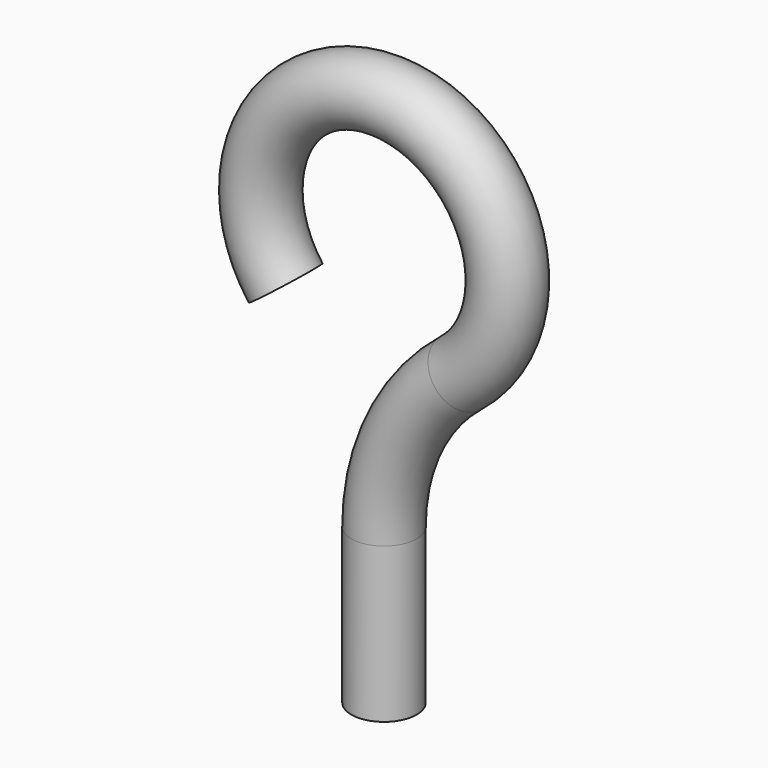
from build123d import *

# Parameters (mm, degrees)
F2_R = 0.79375


with BuildPart() as f3:
    # F3: sweep along a path in F0
    with BuildLine(Plane.XZ) as f3_path:
        Line((0, -10.004634), (0, -6.241411))
        ThreePointArc((0, -6.241411), (0.493132, -4.075334), (1.87533, -2.336198))
        ThreePointArc((1.87533, -2.336198), (0.373763, 2.976948), (-2.391324, -1.802018))
    # F2 (on offset) → F3 (sweep)
    with BuildSketch(Plane.XY.offset(-10.00463)):
        Circle(F2_R)
    sweep(path=f3_path.line)


solid = f3.part
